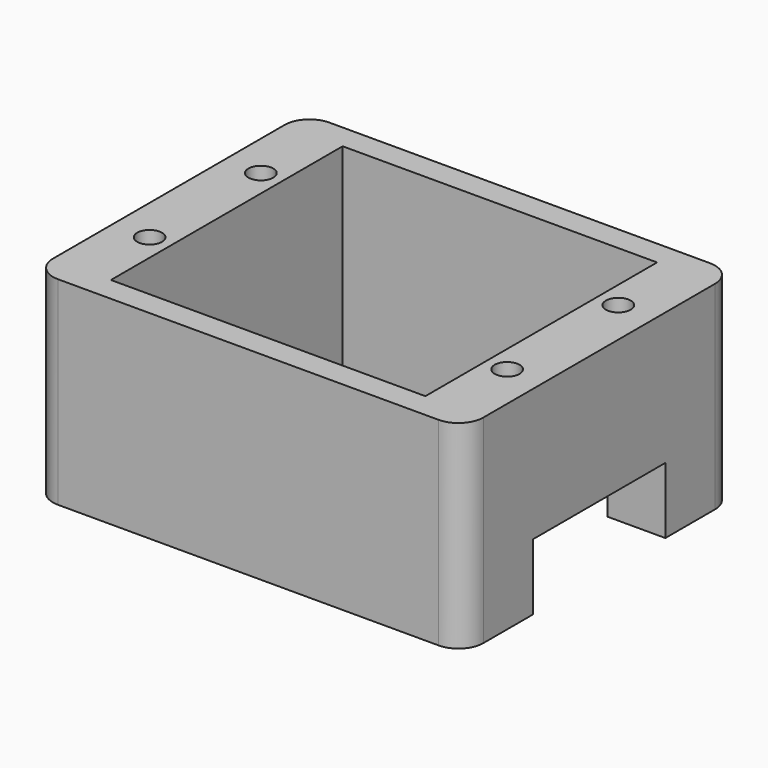
from build123d import *

# Parameters (mm, degrees)
F0_W     = 26
F0_H     = 20.5
F1_DEPTH = 12
F3_R     = 1.5
F5_D     = 1.5
F6_D     = 1.5
F7_D     = 1.5
F8_D     = 1.5
F2_W     = 10
F2_H     = 4
F9_DEPTH = 10


with BuildPart() as f1:
    # F0 (on Top) → F1 (new body)
    with BuildSketch(Plane.XY):
        with Locations((-2.261453, -1.401873)):
            Rectangle(F0_W, F0_H)
        Polygon((-11.761453, -10.151873), (-11.761453, 7.348127), (5.738547, 7.348127), (7.238547, 7.348127), (7.238547, -10.151873), (5.738547, -10.151873), align=None, mode=Mode.SUBTRACT)
    extrude(amount=F1_DEPTH)

    # F3
    f3_edges = [f1.edges().sort_by_distance(p)[0] for p in [
        (10.738547, 8.848127, 6),
        (10.738547, -11.651873, 6),
        (-15.261453, -11.651873, 6),
        (-15.261453, 8.848127, 6),
    ]]
    fillet(f3_edges, radius=F3_R)

    # F5 (through all)
    with Locations(Plane.XY.offset(12)):
        with Locations((-13.061453, 2.798127)):
            Hole(F5_D / 2)

    # F6 (through all)
    with Locations(Plane.XY.offset(12)):
        with Locations((-13.061453, -5.601873)):
            Hole(F6_D / 2)

    # F7 (through all)
    with Locations(Plane.XY.offset(12)):
        with Locations((8.538547, -5.601873)):
            Hole(F7_D / 2)

    # F8 (through all)
    with Locations(Plane.XY.offset(12)):
        with Locations((8.538547, 2.798127)):
            Hole(F8_D / 2)

    # F2 (on face) → F9 (cut)
    with BuildSketch(Plane.YZ.offset(10.738547)):
        with Locations((-1.401873, 2)):
            Rectangle(F2_W, F2_H)
    extrude(amount=-F9_DEPTH, mode=Mode.SUBTRACT)


solid = f1.part
